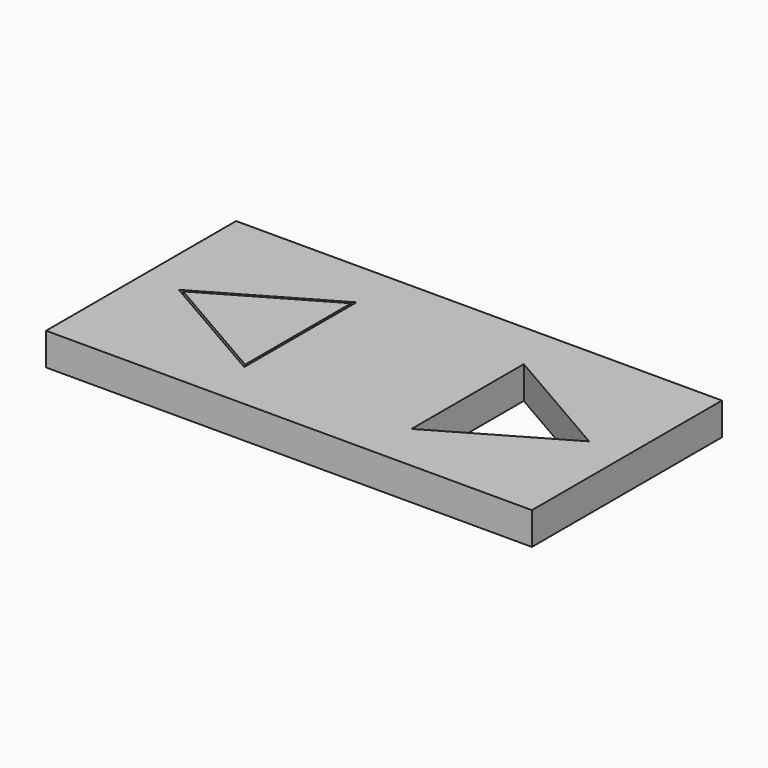
from build123d import *

# Parameters (mm, degrees)
F0_W     = 45
F0_H     = 22
F1_DEPTH = 3
F3_DEPTH = 3


with BuildPart() as f1:
    # F0 (on Top) → F1 (new body)
    with BuildSketch(Plane.XY):
        with Locations((0.171105, 0.046794)):
            Rectangle(F0_W, F0_H)
        Polygon((-7.578895, 6.541985), (-7.578895, -6.448396), (-18.828895, 0.046794), align=None, mode=Mode.SUBTRACT)
        Polygon((7.921105, -6.448396), (7.921105, 6.541985), (19.171105, 0.046794), align=None, mode=Mode.SUBTRACT)
    extrude(amount=F1_DEPTH)


with BuildPart() as f3:
    # F2 (on face) → F3 (new body)
    with BuildSketch(Plane.XY):
        Polygon((-18.428895, 0.046794), (-7.778895, -6.101986), (-7.778895, 6.195575), align=None)
    extrude(amount=F3_DEPTH)


solid = Compound([f1.part, f3.part])
